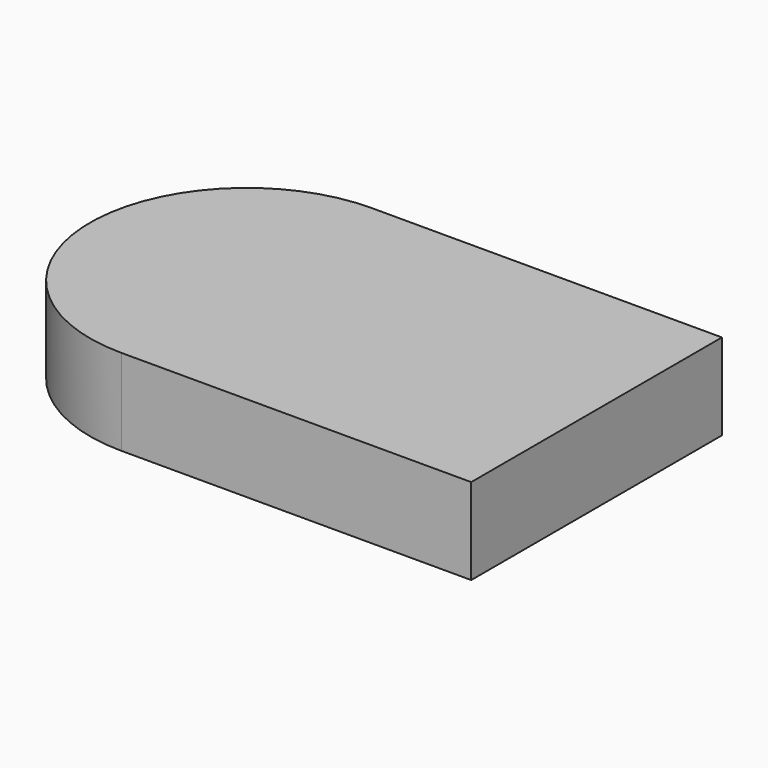
from build123d import *

# Parameters (mm, degrees)
F1_DEPTH = 20


with BuildPart() as f1:
    # F0 (on Top) → F1 (new body)
    with BuildSketch(Plane.XY):
        with BuildLine():
            ThreePointArc((-4.2298100889, 0), (-14.8700477673, 25.6878061102), (-40.5578538775, 36.3280437887))
            Line((-40.5578538775, 36.3280437887), (-40.5578538775, -36.3280437887))
            ThreePointArc((-40.5578538775, -36.3280437887), (-14.8700477673, -25.6878061102), (-4.2298100889, 0))
        make_face()
        with BuildLine():
            Line((40.5578538775, 36.3280437887), (-40.5578538775, 36.3280437887))
            ThreePointArc((-40.5578538775, 36.3280437887), (-14.8700477673, 25.6878061102), (-4.2298100889, 0))
            ThreePointArc((-4.2298100889, 0), (-14.8700477673, -25.6878061102), (-40.5578538775, -36.3280437887))
            Line((-40.5578538775, -36.3280437887), (40.5578538775, -36.3280437887))
            Line((40.5578538775, -36.3280437887), (40.5578538775, 36.3280437887))
        make_face()
        with BuildLine():
            Line((-40.5578538775, -36.3280437887), (-40.5578538775, 36.3280437887))
            ThreePointArc((-40.5578538775, 36.3280437887), (-76.8858976662, 0), (-40.5578538775, -36.3280437887))
        make_face()
    extrude(amount=F1_DEPTH)


solid = f1.part
